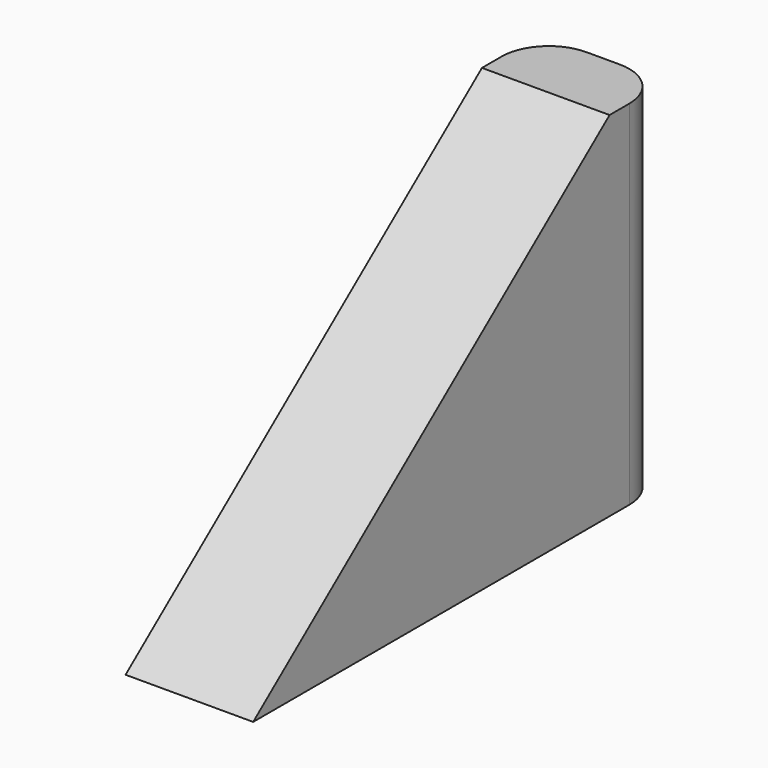
from build123d import *

# Parameters (mm, degrees)
BOX001_W     = 2.71
BOX001_H     = 11
BOX001_DEPTH = 7.5
POCKET_DEPTH = 5
FILLET001_R  = 1


with BuildPart() as part:
    # Box001 → Box001 (new body)
    with BuildSketch(Plane(origin=(-7.36, 9.35, 0), x_dir=(1, 0, 0), z_dir=(0, 0, 1))):
        with Locations((1.355, 5.5)):
            Rectangle(BOX001_W, BOX001_H)
    extrude(amount=BOX001_DEPTH)

    # Sketch → Pocket (cut)
    with BuildSketch(Plane(origin=(-7.36, 9.35, 0), x_dir=(0, -1, 0), z_dir=(-1, 0, 0))):
        Polygon((-9.540607, 7.550952), (0.165381, -0.144127), (0.165381, 8.596624), align=None)
    extrude(amount=-POCKET_DEPTH, mode=Mode.SUBTRACT)

    # Fillet001
    fillet001_edges = [part.edges().sort_by_distance(p)[0] for p in [
        (-7.36, 20.35, 3.75),
        (-4.65, 20.35, 3.75),
    ]]
    fillet(fillet001_edges, radius=FILLET001_R)


solid = part.part
